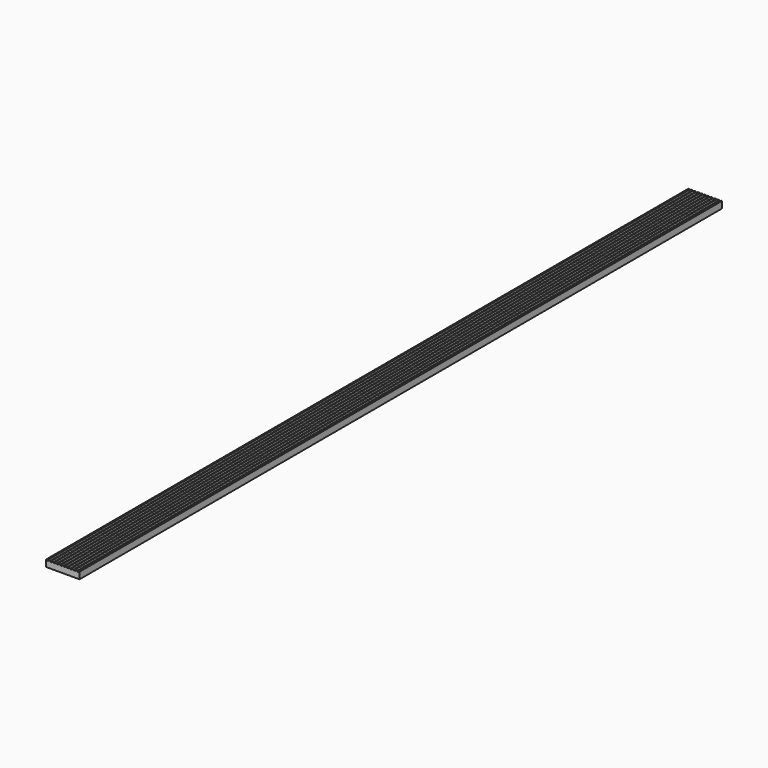
from build123d import *

# Parameters (mm, degrees)
F1_DEPTH = 1524


with BuildPart() as f1:
    # F0 (on Front) → F1 (new body, symmetric)
    with BuildSketch(Plane.XZ):
        with BuildLine():
            Line((-60.579, 12.7), (-63.246, 12.7))
            ThreePointArc((-63.246, 12.7), (-63.425605, 12.625605), (-63.5, 12.446))
            Line((-63.5, 12.446), (-63.5, -12.7))
            Line((-63.5, -12.7), (63.5, -12.7))
            Line((63.5, -12.7), (63.5, 12.7))
            Line((63.5, 12.7), (60.325, 12.7))
            Line((60.325, 12.7), (60.325, 10.16))
            Line((60.325, 10.16), (53.975, 10.16))
            Line((53.975, 10.16), (53.975, 12.7))
            Line((53.975, 12.7), (47.625, 12.7))
            Line((47.625, 12.7), (47.625, 10.16))
            Line((47.625, 10.16), (41.275, 10.16))
            Line((41.275, 10.16), (41.275, 12.7))
            Line((41.275, 12.7), (34.925, 12.7))
            Line((34.925, 12.7), (34.925, 10.16))
            Line((34.925, 10.16), (28.575, 10.16))
            Line((28.575, 10.16), (28.575, 12.7))
            Line((28.575, 12.7), (22.225, 12.7))
            Line((22.225, 12.7), (22.225, 10.16))
            Line((22.225, 10.16), (15.875, 10.16))
            Line((15.875, 10.16), (15.875, 12.7))
            Line((15.875, 12.7), (9.525, 12.7))
            Line((9.525, 12.7), (9.525, 10.16))
            Line((9.525, 10.16), (3.175, 10.16))
            Line((3.175, 10.16), (3.175, 12.7))
            Line((3.175, 12.7), (-3.175, 12.7))
            Line((-3.175, 12.7), (-3.175, 10.16))
            Line((-3.175, 10.16), (-9.525, 10.16))
            Line((-9.525, 10.16), (-9.525, 12.7))
            Line((-9.525, 12.7), (-15.875, 12.7))
            Line((-15.875, 12.7), (-15.875, 10.16))
            Line((-15.875, 10.16), (-22.225, 10.16))
            Line((-22.225, 10.16), (-22.225, 12.7))
            Line((-22.225, 12.7), (-28.575, 12.7))
            Line((-28.575, 12.7), (-28.575, 10.16))
            Line((-28.575, 10.16), (-34.925, 10.16))
            Line((-34.925, 10.16), (-34.925, 12.7))
            Line((-34.925, 12.7), (-41.275, 12.7))
            Line((-41.275, 12.7), (-41.275, 10.16))
            Line((-41.275, 10.16), (-47.625, 10.16))
            Line((-47.625, 10.16), (-47.625, 12.7))
            Line((-47.625, 12.7), (-53.721, 12.7))
            ThreePointArc((-53.721, 12.7), (-53.900605, 12.625605), (-53.975, 12.446))
            Line((-53.975, 12.446), (-53.975, 10.414))
            ThreePointArc((-53.975, 10.414), (-54.049395, 10.234395), (-54.229, 10.16))
            Line((-54.229, 10.16), (-60.071, 10.16))
            ThreePointArc((-60.071, 10.16), (-60.250605, 10.234395), (-60.325, 10.414))
            Line((-60.325, 10.414), (-60.325, 12.446))
            ThreePointArc((-60.325, 12.446), (-60.399395, 12.625605), (-60.579, 12.7))
        make_face()
    extrude(amount=F1_DEPTH, both=True)


solid = f1.part
